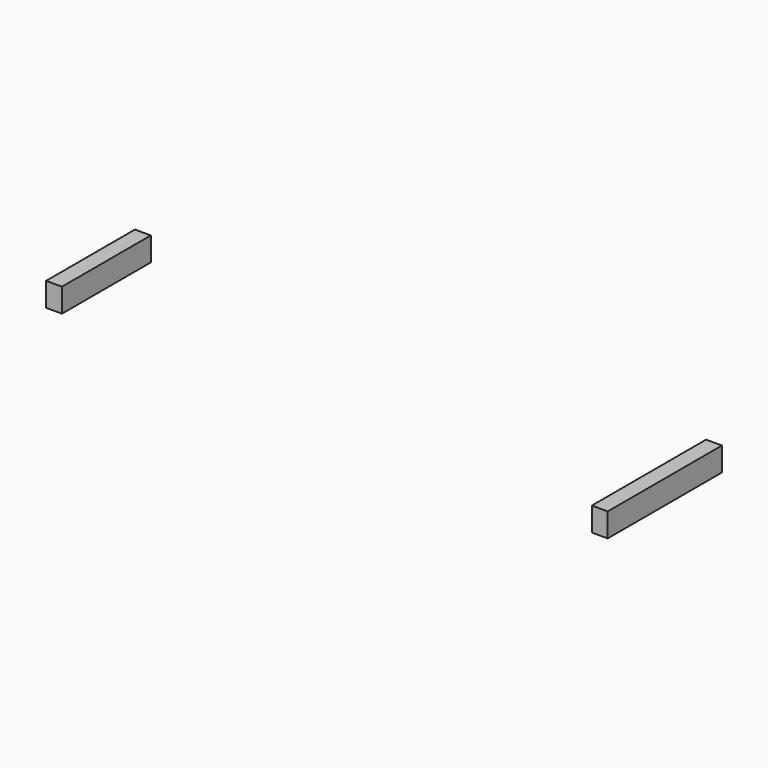
from build123d import *

# Parameters (mm, degrees)
SKETCH012_W      = 18
SKETCH012_H      = 3
EXTRUDE012_DEPTH = 2
SKETCH013_W      = 14
SKETCH013_H      = 3
EXTRUDE013_DEPTH = 2


with BuildPart() as obj1:
    # Sketch012 → Extrude012 (new body)
    with BuildSketch(Plane.YZ):
        with Locations((17, 21.5)):
            Rectangle(SKETCH012_W, SKETCH012_H)
    extrude(amount=EXTRUDE012_DEPTH)


with BuildPart() as obj1_1:
    # Extrude012 placement: moved
    add(obj1.part.moved(Location((72, 1, 0))))


with BuildPart() as obj2:
    # Sketch013 (on Extrude) → Extrude013 (new body)
    with BuildSketch(Plane(origin=(72, 1, 0), x_dir=(0, 1, 0), z_dir=(1, 0, 0))):
        with Locations((19, 21.4)):
            Rectangle(SKETCH013_W, SKETCH013_H)
    extrude(amount=EXTRUDE013_DEPTH)


with BuildPart() as obj2_1:
    # Extrude013 placement: moved
    add(obj2.part.moved(Location((-72, 0, 0))))

    # Fusion017: union obj1
    add(obj1_1.part)


solid = obj2_1.part
